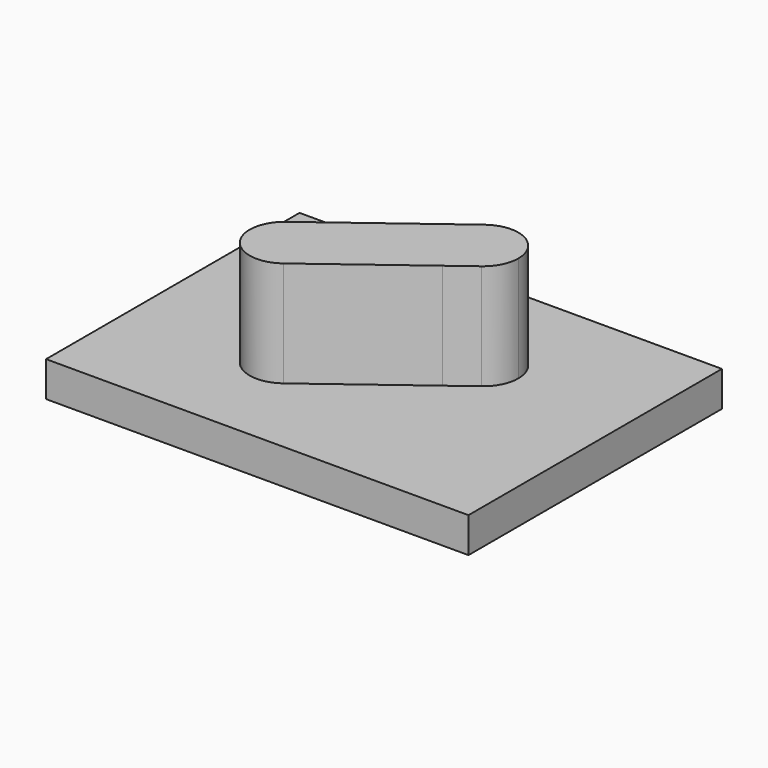
from build123d import *

# Parameters (mm, degrees)
F0_W     = 152.4
F0_H     = 114.3
F1_DEPTH = 12.7
F3_DEPTH = 38.1


with BuildPart() as f1:
    # F0 (on Top) → F1 (new body)
    with BuildSketch(Plane.XY):
        with Locations((76.2, -57.15)):
            Rectangle(F0_W, F0_H)
    extrude(amount=F1_DEPTH)

    # F2 (on face) → F3 (join)
    with BuildSketch(Plane.XY.offset(12.7)):
        Polygon((76.2, -41.275), (55.0333333333, -57.15), (76.2, -57.15), align=None)
        with BuildLine():
            Line((76.2, -57.15), (55.0333333333, -57.15))
            Line((55.0333333333, -57.15), (46.228, -63.754))
            ThreePointArc((46.228, -63.754), (55.6440512242, -61.3416414305), (64.008, -66.294))
            Line((64.008, -66.294), (76.2, -57.15))
        make_face()
        with BuildLine():
            Line((88.392, -48.006), (76.2, -57.15))
            Line((76.2, -57.15), (97.3666666667, -57.15))
            Line((97.3666666667, -57.15), (106.172, -50.546))
            ThreePointArc((106.172, -50.546), (96.7559487758, -52.9583585695), (88.392, -48.006))
        make_face()
        Polygon((97.3666666667, -57.15), (76.2, -57.15), (76.2, -73.025), align=None)
        with BuildLine():
            Line((76.2, -41.275), (76.2, -57.15))
            Line((76.2, -57.15), (88.392, -48.006))
            ThreePointArc((88.392, -48.006), (85.9796414305, -38.5899487758), (90.932, -30.226))
            Line((90.932, -30.226), (76.2, -41.275))
        make_face()
        with BuildLine():
            Line((76.2, -73.025), (76.2, -57.15))
            Line((76.2, -57.15), (64.008, -66.294))
            ThreePointArc((64.008, -66.294), (65.8962778852, -69.8979073716), (66.548, -73.914))
            ThreePointArc((66.548, -73.914), (65.2072253257, -79.5936126628), (61.468, -84.074))
            Line((61.468, -84.074), (76.2, -73.025))
        make_face()
        with BuildLine():
            ThreePointArc((64.008, -66.294), (55.6440512242, -61.3416414305), (46.228, -63.754))
            Line((46.228, -63.754), (53.848, -73.914))
            Line((53.848, -73.914), (64.008, -66.294))
        make_face()
        with BuildLine():
            Line((53.848, -73.914), (46.228, -63.754))
            ThreePointArc((46.228, -63.754), (41.2756414305, -72.1179487758), (43.688, -81.534))
            Line((43.688, -81.534), (53.848, -73.914))
        make_face()
        with BuildLine():
            ThreePointArc((90.932, -30.226), (85.9796414305, -38.5899487758), (88.392, -48.006))
            Line((88.392, -48.006), (98.552, -40.386))
            Line((98.552, -40.386), (90.932, -30.226))
        make_face()
        with BuildLine():
            Line((98.552, -40.386), (88.392, -48.006))
            ThreePointArc((88.392, -48.006), (96.7559487758, -52.9583585695), (106.172, -50.546))
            Line((106.172, -50.546), (98.552, -40.386))
        make_face()
        with BuildLine():
            ThreePointArc((66.548, -73.914), (65.8962778852, -69.8979073716), (64.008, -66.294))
            Line((64.008, -66.294), (53.848, -73.914))
            Line((53.848, -73.914), (61.468, -84.074))
            ThreePointArc((61.468, -84.074), (65.2072253257, -79.5936126628), (66.548, -73.914))
        make_face()
        with BuildLine():
            ThreePointArc((108.712, -32.766), (100.3480512242, -27.8136414305), (90.932, -30.226))
            Line((90.932, -30.226), (98.552, -40.386))
            Line((98.552, -40.386), (108.712, -32.766))
        make_face()
        with BuildLine():
            Line((61.468, -84.074), (53.848, -73.914))
            Line((53.848, -73.914), (43.688, -81.534))
            ThreePointArc((43.688, -81.534), (52.0519487758, -86.4863585695), (61.468, -84.074))
        make_face()
        with BuildLine():
            Line((98.552, -40.386), (106.172, -50.546))
            ThreePointArc((106.172, -50.546), (109.9112253257, -46.0656126628), (111.252, -40.386))
            ThreePointArc((111.252, -40.386), (110.6002778852, -36.3699073716), (108.712, -32.766))
            Line((108.712, -32.766), (98.552, -40.386))
        make_face()
    extrude(amount=F3_DEPTH)


solid = f1.part
